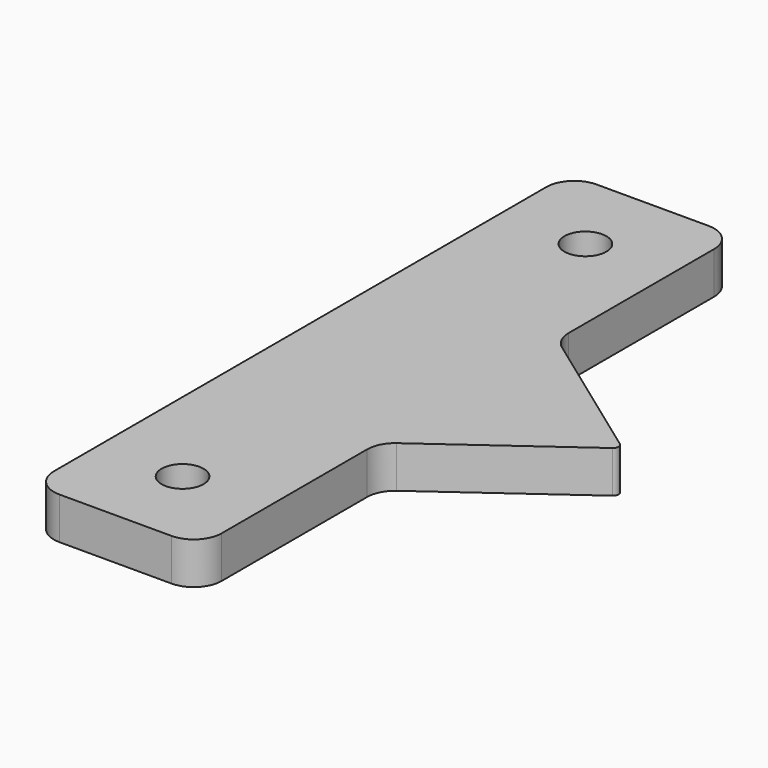
from build123d import *

# Parameters (mm, degrees)
F0_R     = 4.7625
F1_DEPTH = 9.525


with BuildPart() as f1:
    # F0 (on Top) → F1 (new body)
    with BuildSketch(Plane.XY):
        with BuildLine():
            ThreePointArc((0, 6.35), (1.859872, 1.859872), (6.35, 0))
            Line((6.35, 0), (31.75, 0))
            ThreePointArc((31.75, 0), (36.240128, 1.859872), (38.1, 6.35))
            Line((38.1, 6.35), (38.1, 47.606992))
            ThreePointArc((38.1, 47.606992), (38.776838, 50.459662), (40.663064, 52.704208))
            Line((40.663064, 52.704208), (71.762101, 75.17053))
            ThreePointArc((71.762101, 75.17053), (72.2884, 76.2), (71.762101, 77.22947))
            Line((71.762101, 77.22947), (40.663064, 99.695792))
            ThreePointArc((40.663064, 99.695792), (38.776838, 101.940338), (38.1, 104.793008))
            Line((38.1, 104.793008), (38.1, 146.05))
            ThreePointArc((38.1, 146.05), (36.240128, 150.540128), (31.75, 152.4))
            Line((31.75, 152.4), (6.35, 152.4))
            ThreePointArc((6.35, 152.4), (1.859872, 150.540128), (0, 146.05))
            Line((0, 146.05), (0, 6.35))
        make_face()
        with Locations((19.05, 19.05)):
            Circle(F0_R, mode=Mode.SUBTRACT)
        with Locations((19.05, 133.35)):
            Circle(F0_R, mode=Mode.SUBTRACT)
    extrude(amount=F1_DEPTH)


solid = f1.part
